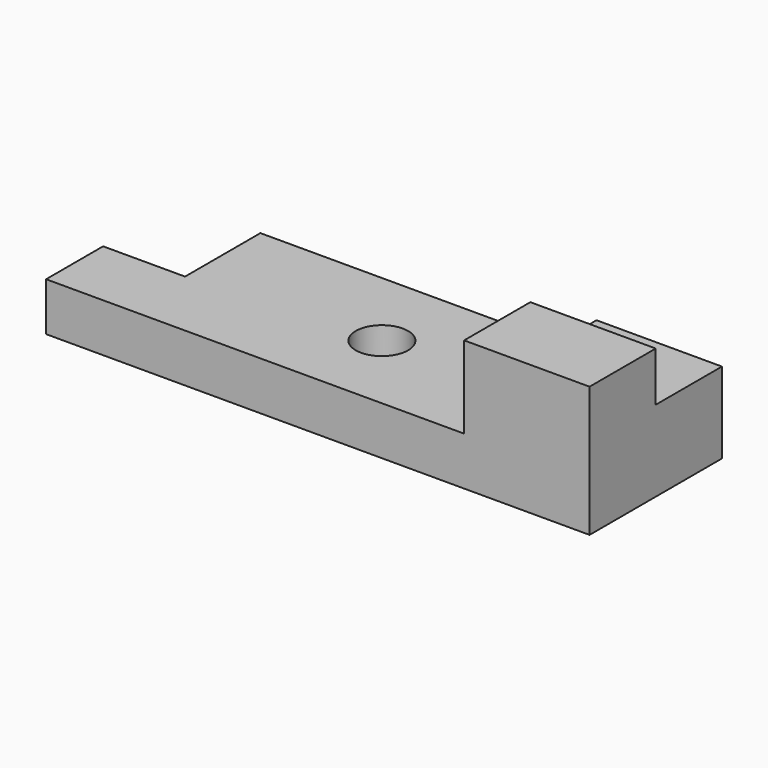
from build123d import *

# Parameters (mm, degrees)
F0_W     = 114.3
F0_H     = 10.170036
F1_DEPTH = 34.798
F2_W     = 17.233886
F2_H     = 19.807858
F3_DEPTH = 25.4
F4_W     = 26.374524
F4_H     = 34.798
F5_DEPTH = 17.272
F6_W     = 26.374524
F6_H     = 17.399
F7_DEPTH = 10.414
F8_R     = 5.509405
F9_DEPTH = 35.56


with BuildPart() as f1:
    # F0 (on Front) → F1 (new body)
    with BuildSketch(Plane.XZ):
        with Locations((6.0662, 5.085018)):
            Rectangle(F0_W, F0_H)
    extrude(amount=F1_DEPTH)

    # F2 (on face) → F3 (cut)
    with BuildSketch(Plane.XY.offset(10.170036)):
        with Locations((-42.466857, -9.903929)):
            Rectangle(F2_W, F2_H)
    extrude(amount=-F3_DEPTH, mode=Mode.SUBTRACT)

    # F4 (on face) → F5 (join)
    with BuildSketch(Plane.XY.offset(10.170036)):
        with Locations((50.028938, -17.399)):
            Rectangle(F4_W, F4_H)
    extrude(amount=F5_DEPTH)

    # F6 (on face) → F7 (cut)
    with BuildSketch(Plane.XY.offset(27.442036)):
        with Locations((50.028938, -8.6995)):
            Rectangle(F6_W, F6_H)
    extrude(amount=-F7_DEPTH, mode=Mode.SUBTRACT)

    # F8 (on face) → F9 (cut)
    with BuildSketch(Plane.XY.offset(10.170036)):
        with Locations((5.631648, -17.399)):
            Circle(F8_R)
    extrude(amount=-F9_DEPTH, mode=Mode.SUBTRACT)


solid = f1.part
